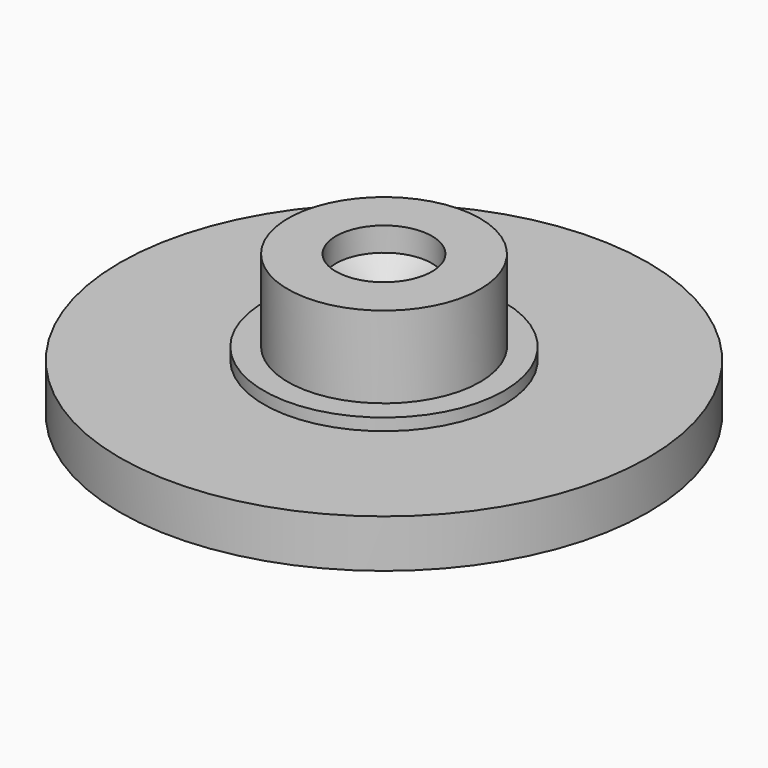
from build123d import *

# Parameters (mm, degrees)
F0_R     = 11
F1_DEPTH = 2
F2_R     = 5
F3_DEPTH = 0.5
F4_R     = 4
F5_DEPTH = 3.4
F7_D     = 4
F7_DEPTH = 1
F7_TIP   = 1.2017212381


with BuildPart() as f1:
    # F0 (on Top) → F1 (new body)
    with BuildSketch(Plane.XY):
        Circle(F0_R)
    extrude(amount=F1_DEPTH)

    # F2 (on face) → F3 (join)
    with BuildSketch(Plane.XY.offset(2)):
        Circle(F2_R)
    extrude(amount=F3_DEPTH)

    # F4 (on face) → F5 (join)
    with BuildSketch(Plane.XY.offset(2.5)):
        Circle(F4_R)
    extrude(amount=F5_DEPTH)

    # F7
    with Locations(Plane.XY.offset(5.9)):
        with Locations((0, 0)):
            Hole(F7_D / 2, depth=F7_DEPTH)
            with Locations((0, 0, -(F7_DEPTH + F7_TIP / 2))):  # 118° drill point
                Cone(0, F7_D / 2, F7_TIP, mode=Mode.SUBTRACT)


solid = f1.part
